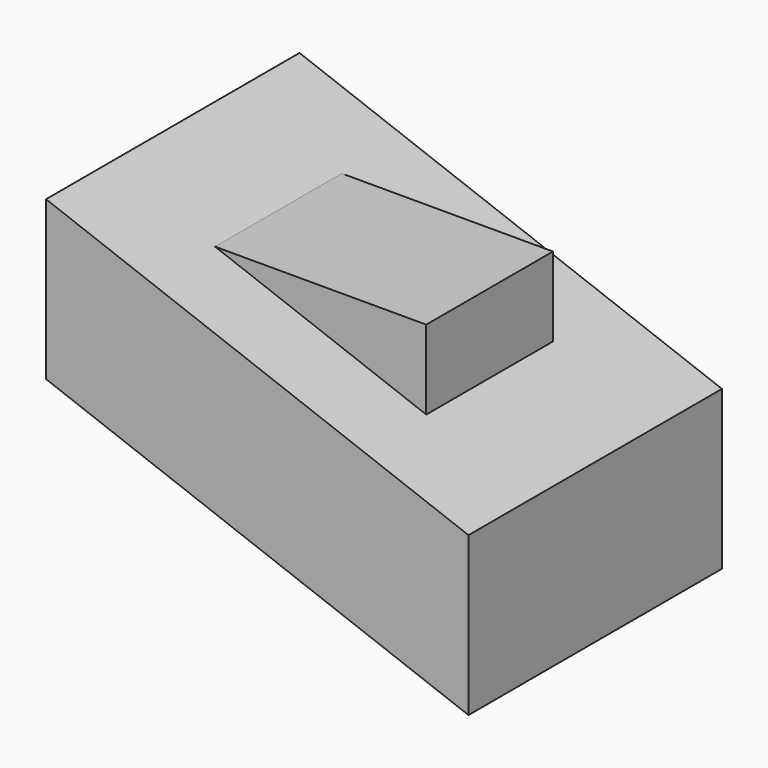
from build123d import *

# Parameters (mm, degrees)
F1_DEPTH = 15
F2_DEPTH = 7.5
F3_DEPTH = 15


with BuildPart() as f1:
    # F0 (on Front) → F1 (new body, symmetric)
    with BuildSketch(Plane.XZ):
        Polygon((0, 15), (0, 0), (40, 0), align=None)
        Polygon((10, 18.75), (30, 18.75), (10, 26.25), align=None)
        Polygon((0, 15), (40, 0), (40, 15), (30, 18.75), (10, 18.75), (10, 26.25), (0, 30), align=None)
    extrude(amount=F1_DEPTH, both=True)

    # F0 (on Front) → F2 (join, symmetric)
    with BuildSketch(Plane.XZ):
        Polygon((10, 26.25), (30, 18.75), (30, 26.25), align=None)
    extrude(amount=F2_DEPTH, both=True)

    # F0 (on Front) → F3 (cut, symmetric)
    with BuildSketch(Plane.XZ):
        Polygon((0, 15), (0, 0), (40, 0), align=None)
    extrude(amount=F3_DEPTH, both=True, mode=Mode.SUBTRACT)


solid = f1.part
